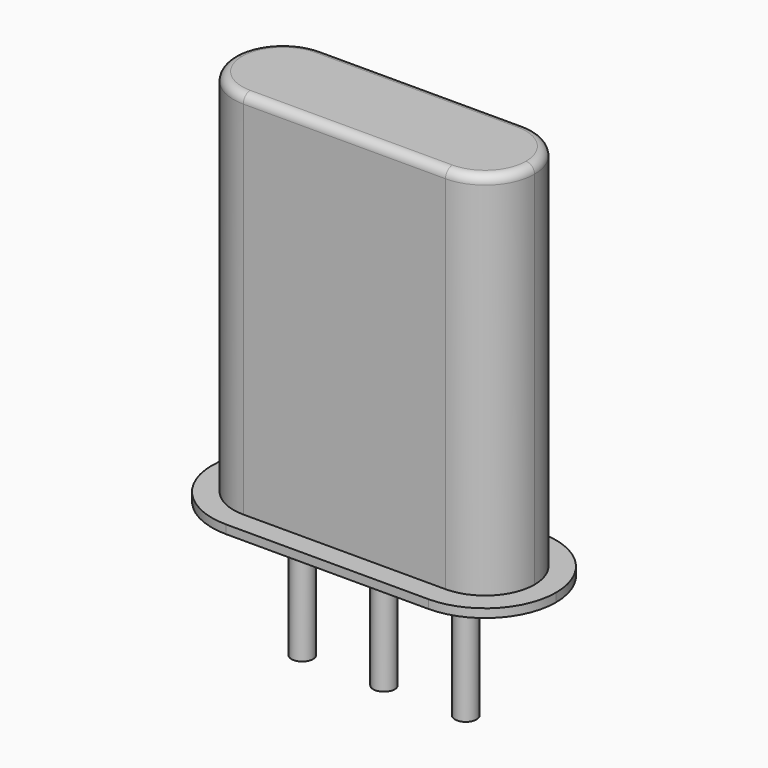
from build123d import *

# Parameters (mm, degrees)
SKETCH_R     = 0.25
PAD_DEPTH    = 3
PAD001_DEPTH = 0.2
PAD002_DEPTH = 8.8
FILLET_R     = 0.2


with BuildPart() as pad:
    # Sketch → Pad (new body)
    with BuildSketch(Plane.XY.offset(0.1)):
        Circle(SKETCH_R)
        with Locations((3.8, 0)):
            Circle(SKETCH_R)
        with Locations((1.9, 0)):
            Circle(SKETCH_R)
    extrude(amount=-PAD_DEPTH)


with BuildPart() as pad001:
    # Sketch001 → Pad001 (new body)
    with BuildSketch(Plane.XY.offset(0.1)):
        with BuildLine():
            Line((-0.45, 1.65), (4.25, 1.65))
            ThreePointArc((5.9, 0), (5.416726, 1.166726), (4.25, 1.65))
            ThreePointArc((4.25, -1.65), (5.416726, -1.166726), (5.9, 0))
            Line((4.25, -1.65), (-0.45, -1.65))
            ThreePointArc((-2.1, 0), (-1.616726, -1.166726), (-0.45, -1.65))
            ThreePointArc((-0.45, 1.65), (-1.616726, 1.166726), (-2.1, 0))
        make_face()
    extrude(amount=PAD001_DEPTH)


with BuildPart() as fillet_body:
    # Sketch003 → Pad002 (new body)
    with BuildSketch(Plane.XY.offset(0.1)):
        with BuildLine():
            Line((-0.45, 1.15), (4.25, 1.15))
            ThreePointArc((5.4, 0), (5.063173, 0.813173), (4.25, 1.15))
            ThreePointArc((4.25, -1.15), (5.063173, -0.813173), (5.4, 0))
            Line((4.25, -1.15), (-0.45, -1.15))
            ThreePointArc((-1.6, 0), (-1.263173, -0.813173), (-0.45, -1.15))
            ThreePointArc((-0.45, 1.15), (-1.263173, 0.813173), (-1.6, 0))
        make_face()
    extrude(amount=PAD002_DEPTH)

    # Fillet
    fillet_edges = [fillet_body.edges().sort_by_distance(p)[0] for p in [
        (1.9, 1.15, 8.9),
        (-1.263173, 0.813173, 8.9),
        (-1.263173, -0.813173, 8.9),
        (1.9, -1.15, 8.9),
        (5.063173, -0.813173, 8.9),
        (5.063173, 0.813173, 8.9),
    ]]
    fillet(fillet_edges, radius=FILLET_R)


solid = Compound([pad.part, pad001.part, fillet_body.part])
